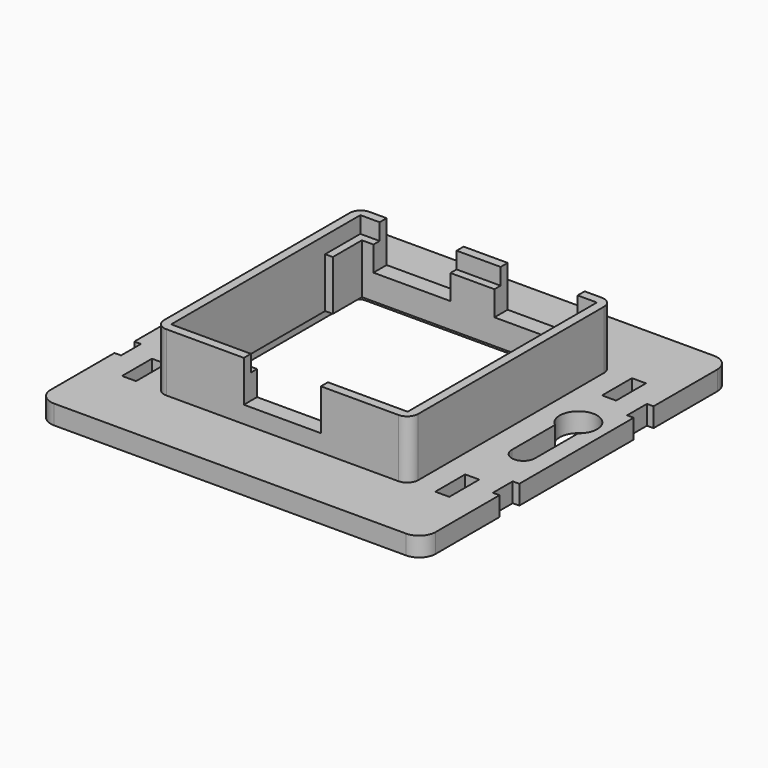
from build123d import *

# Parameters (mm, degrees)
F0_W      = 40.2
F0_H      = 40.2
F1_DEPTH  = 14.1
F2_DEPTH  = 3.5
F3_W      = 1.2
F3_H      = 4.5
F4_DEPTH  = 25
F6_DEPTH  = 2
F7_W      = 43
F7_H      = 43
F7_W_2    = 40.2
F7_H_2    = 40.2
F8_DEPTH  = 3
F9_W      = 14
F9_H      = 7.5
F10_DEPTH = 5
F11_W     = 14
F11_H     = 7.5
F12_DEPTH = 5
F13_W     = 1.4
F13_H     = 31
F14_DEPTH = 15
F15_W     = 0.8
F15_H     = 4.8
F16_DEPTH = 2.7
F17_DEPTH = 7


with BuildPart() as f1:
    # F0 (on Top) → F1 (new body)
    with BuildSketch(Plane.XY):
        with BuildLine():
            Line((23.1, -21.1), (23.1, 21.1))
            ThreePointArc((23.1, 21.1), (22.514214, 22.514214), (21.1, 23.1))
            Line((21.1, 23.1), (-21.1, 23.1))
            ThreePointArc((-21.1, 23.1), (-22.514214, 22.514214), (-23.1, 21.1))
            Line((-23.1, 21.1), (-23.1, -21.1))
            ThreePointArc((-23.1, -21.1), (-22.514214, -22.514214), (-21.1, -23.1))
            Line((-21.1, -23.1), (21.1, -23.1))
            ThreePointArc((21.1, -23.1), (22.514214, -22.514214), (23.1, -21.1))
        make_face()
        Rectangle(F0_W, F0_H, mode=Mode.SUBTRACT)
    extrude(amount=F1_DEPTH)

    # F0 (on Top) → F2 (join)
    with BuildSketch(Plane.XY):
        with BuildLine():
            Line((32, 35), (-32, 35))
            ThreePointArc((-32, 35), (-34.12132, 34.12132), (-35, 32))
            Line((-35, 32), (-35, -32))
            ThreePointArc((-35, -32), (-34.12132, -34.12132), (-32, -35))
            Line((-32, -35), (32, -35))
            ThreePointArc((32, -35), (34.12132, -34.12132), (35, -32))
            Line((35, -32), (35, 32))
            ThreePointArc((35, 32), (34.12132, 34.12132), (32, 35))
        make_face()
        with BuildLine():
            ThreePointArc((21.1, 23.1), (22.514214, 22.514214), (23.1, 21.1))
            Line((23.1, 21.1), (23.1, -21.1))
            ThreePointArc((23.1, -21.1), (22.514214, -22.514214), (21.1, -23.1))
            Line((21.1, -23.1), (-21.1, -23.1))
            ThreePointArc((-21.1, -23.1), (-22.514214, -22.514214), (-23.1, -21.1))
            Line((-23.1, -21.1), (-23.1, 21.1))
            ThreePointArc((-23.1, 21.1), (-22.514214, 22.514214), (-21.1, 23.1))
            Line((-21.1, 23.1), (21.1, 23.1))
        make_face(mode=Mode.SUBTRACT)
    extrude(amount=F2_DEPTH)

    # F3 (on face) → F4 (cut)
    with BuildSketch(Plane.XY.offset(3.5)):
        with Locations((-34.4, 15.25)):
            Rectangle(F3_W, F3_H)
        with Locations((34.4, -15.25)):
            Rectangle(F3_W, F3_H)
        with BuildLine():
            Line((31.85, -5.5), (31.85, 4.326052))
            ThreePointArc((31.85, 4.326052), (29.75, 10.4), (27.65, 4.326052))
            Line((27.65, 4.326052), (27.65, -5.5))
            ThreePointArc((27.65, -5.5), (29.75, -7.6), (31.85, -5.5))
        make_face()
        with BuildLine():
            ThreePointArc((-27.65, 5.5), (-29.75, 7.6), (-31.85, 5.5))
            Line((-31.85, 5.5), (-31.85, -4.326052))
            ThreePointArc((-31.85, -4.326052), (-29.75, -10.4), (-27.65, -4.326052))
            Line((-27.65, -4.326052), (-27.65, 5.5))
        make_face()
        with Locations((34.4, 15.25)):
            Rectangle(F3_W, F3_H)
        with Locations((-34.4, -15.25)):
            Rectangle(F3_W, F3_H)
    extrude(amount=-F4_DEPTH, mode=Mode.SUBTRACT)

    # F5 (on Top) → F6 (cut)
    with BuildSketch(Plane.XY):
        with BuildLine():
            ThreePointArc((-22.6, -21.6), (-22.307107, -22.307107), (-21.6, -22.6))
            Line((-21.6, -22.6), (21.6, -22.6))
            ThreePointArc((21.6, -22.6), (22.307107, -22.307107), (22.6, -21.6))
            Line((22.6, -21.6), (22.6, 21.6))
            ThreePointArc((22.6, 21.6), (22.307107, 22.307107), (21.6, 22.6))
            Line((21.6, 22.6), (-21.6, 22.6))
            ThreePointArc((-21.6, 22.6), (-22.307107, 22.307107), (-22.6, 21.6))
            Line((-22.6, 21.6), (-22.6, -21.6))
        make_face()
    extrude(amount=F6_DEPTH, mode=Mode.SUBTRACT)

    # F7 (on face) → F8 (cut)
    with BuildSketch(Plane.XY.offset(14.1)):
        Rectangle(F7_W, F7_H)
        Rectangle(F7_W_2, F7_H_2, mode=Mode.SUBTRACT)
    extrude(amount=-F8_DEPTH, mode=Mode.SUBTRACT)

    # F9 (on face) → F10 (cut)
    with BuildSketch(Plane.XZ.offset(23.1)):
        with Locations((0, 10.35)):
            Rectangle(F9_W, F9_H)
    extrude(amount=-F10_DEPTH, mode=Mode.SUBTRACT)

    # F11 (on face) → F12 (cut)
    with BuildSketch(Plane(origin=(0, 23.1, 0), x_dir=(-1, 0, 0), z_dir=(0, 1, 0))):
        with Locations((-11, 10.35)):
            Rectangle(F11_W, F11_H)
        with Locations((11, 10.35)):
            Rectangle(F11_W, F11_H)
    extrude(amount=-F12_DEPTH, mode=Mode.SUBTRACT)

    # F13 (on face) → F14 (cut)
    with BuildSketch(Plane.XY.offset(11.1)):
        with Locations((-20.8, -2)):
            Rectangle(F13_W, F13_H)
        with Locations((20.8, -2)):
            Rectangle(F13_W, F13_H)
    extrude(amount=-F14_DEPTH, mode=Mode.SUBTRACT)

    # F15 (on face) → F16 (cut)
    with BuildSketch(Plane.XY.offset(3.5)):
        Polygon((-27.2, 15.55), (-27.2, 22.35), (-29.75, 22.35), (-29.75, 21.35), (-28.95, 21.35), (-28.95, 16.55), (-29.75, 16.55), (-29.75, 15.55), align=None)
        with Locations((-29.35, 18.95)):
            Rectangle(F15_W, F15_H)
        with Locations((29.35, 18.95)):
            Rectangle(F15_W, F15_H)
        Polygon((29.75, 22.35), (27.2, 22.35), (27.2, 15.55), (29.75, 15.55), (29.75, 16.55), (28.95, 16.55), (28.95, 21.35), (29.75, 21.35), align=None)
        Polygon((27.2, -15.55), (27.2, -22.35), (29.75, -22.35), (29.75, -21.35), (28.95, -21.35), (28.95, -16.55), (29.75, -16.55), (29.75, -15.55), align=None)
        with Locations((29.35, -18.95)):
            Rectangle(F15_W, F15_H)
        Polygon((-27.2, -22.35), (-27.2, -15.55), (-29.75, -15.55), (-29.75, -16.55), (-28.95, -16.55), (-28.95, -21.35), (-29.75, -21.35), (-29.75, -22.35), align=None)
        with Locations((-29.35, -18.95)):
            Rectangle(F15_W, F15_H)
    extrude(amount=-F16_DEPTH, mode=Mode.SUBTRACT)

    # F15 (on face) → F17 (cut)
    with BuildSketch(Plane.XY.offset(3.5)):
        Polygon((-27.2, 15.55), (-27.2, 22.35), (-29.75, 22.35), (-29.75, 21.35), (-28.95, 21.35), (-28.95, 16.55), (-29.75, 16.55), (-29.75, 15.55), align=None)
        Polygon((29.75, 22.35), (27.2, 22.35), (27.2, 15.55), (29.75, 15.55), (29.75, 16.55), (28.95, 16.55), (28.95, 21.35), (29.75, 21.35), align=None)
        Polygon((27.2, -15.55), (27.2, -22.35), (29.75, -22.35), (29.75, -21.35), (28.95, -21.35), (28.95, -16.55), (29.75, -16.55), (29.75, -15.55), align=None)
        Polygon((-27.2, -22.35), (-27.2, -15.55), (-29.75, -15.55), (-29.75, -16.55), (-28.95, -16.55), (-28.95, -21.35), (-29.75, -21.35), (-29.75, -22.35), align=None)
    extrude(amount=-F17_DEPTH, mode=Mode.SUBTRACT)


solid = f1.part
